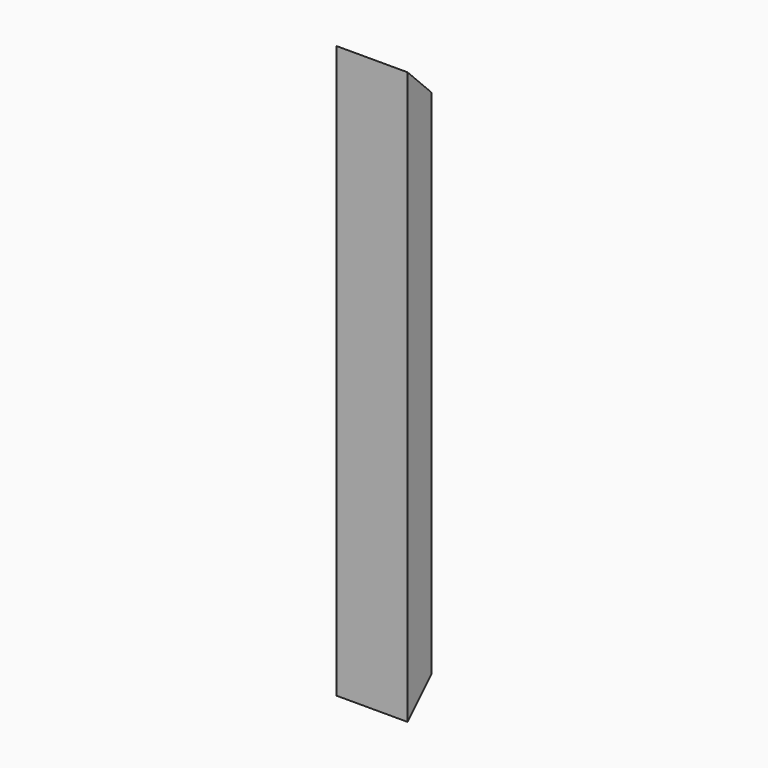
from build123d import *

# Parameters (mm, degrees)
PAD_DEPTH       = 480
POCKET_DEPTH    = 59.501
POCKET001_DEPTH = 59.501


with BuildPart() as part:
    # Sketch → Pad (new body)
    with BuildSketch(Plane.XY):
        Polygon((-29.75, 25), (-29.75, 0), (29.75, 0), (29.75, 25), (28.583333, 25), (28.583333, 1.166667), (0.583333, 1.166667), (0.583333, 25), (-0.583333, 25), (-0.583333, 1.166667), (-28.583333, 1.166667), (-28.583333, 25), align=None)
    extrude(amount=PAD_DEPTH)

    # Sketch001 (on Face3 of Pad) → Pocket (cut, through all)
    with BuildSketch(Plane.YZ.offset(29.75)):
        Polygon((0, 0), (25, 25), (25, 0), align=None)
    extrude(amount=-POCKET_DEPTH, mode=Mode.SUBTRACT)

    # Sketch002 (on Face6 of Pocket) → Pocket001 (cut, through all)
    with BuildSketch(Plane.YZ.offset(29.75)):
        Polygon((0, 480), (25, 455), (25, 480), align=None)
    extrude(amount=-POCKET001_DEPTH, mode=Mode.SUBTRACT)


solid = part.part
